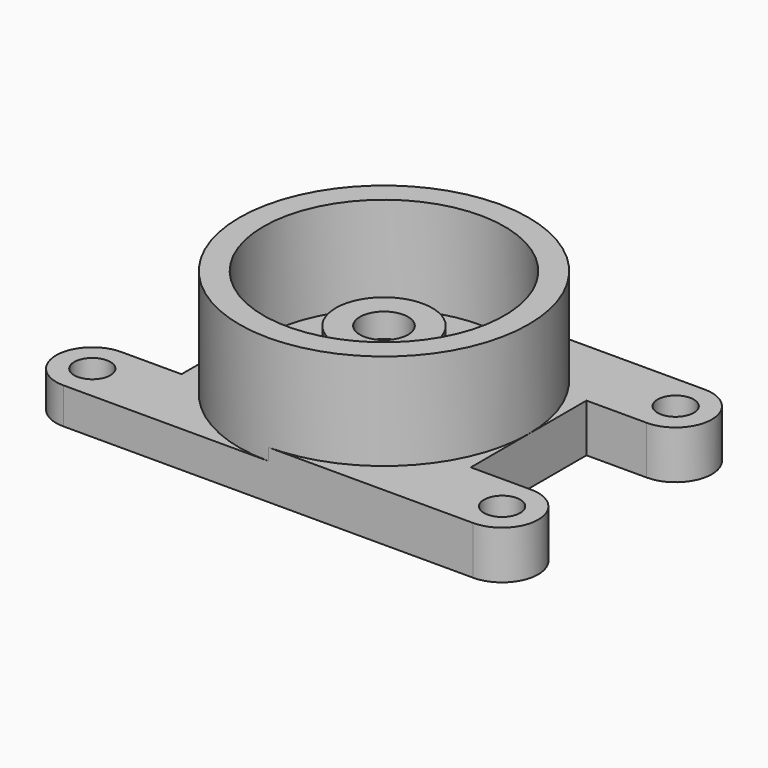
from build123d import *

# Parameters (mm, degrees)
F3_DEPTH = 19.05
F2_R     = 9.525
F4_DEPTH = 25.4


with BuildPart() as f1:
    # F0 (on Front) → F1 (revolve)
    with BuildSketch(Plane.XZ):
        Polygon((-76.2, 0), (-6.35, 0), (-6.35, 38.1), (-12.7, 38.1), (-12.7, 50.8), (-25.4, 50.8), (-25.4, 19.05), (-63.5, 19.05), (-63.5, 76.2), (-76.2, 76.2), align=None)
    revolve(axis=Axis((0, 0, 38.1), (0, 0, 1)))

    # F2 (on Top) → F3 (join)
    with BuildSketch(Plane.XY):
        with BuildLine():
            Line((-107.95, -76.2), (0, -76.2))
            ThreePointArc((0, -76.2), (-53.8815367264, -53.8815367264), (-76.2, 0))
            Line((-76.2, 0), (-76.2, -38.1))
            Line((-76.2, -38.1), (-107.95, -38.1))
            Line((-107.95, -38.1), (-107.95, -47.625))
            ThreePointArc((-107.95, -47.625), (-101.2148079092, -50.4148079092), (-98.425, -57.15))
            ThreePointArc((-98.425, -57.15), (-101.2148079092, -63.8851920908), (-107.95, -66.675))
            Line((-107.95, -66.675), (-107.95, -76.2))
        make_face()
        with BuildLine():
            ThreePointArc((-107.95, -38.1), (-127, -57.15), (-107.95, -76.2))
            Line((-107.95, -76.2), (-107.95, -66.675))
            ThreePointArc((-107.95, -66.675), (-117.475, -57.15), (-107.95, -47.625))
            Line((-107.95, -47.625), (-107.95, -38.1))
        make_face()
    extrude(amount=F3_DEPTH)

    # F2 (on Top) → F4 (join)
    with BuildSketch(Plane.XY):
        with BuildLine():
            Line((107.95, -66.675), (107.95, -76.2))
            ThreePointArc((107.95, -76.2), (127, -57.15), (107.95, -38.1))
            Line((107.95, -38.1), (107.95, -47.625))
            ThreePointArc((107.95, -47.625), (114.6851920908, -50.4148079092), (117.475, -57.15))
            ThreePointArc((117.475, -57.15), (114.6851920908, -63.8851920908), (107.95, -66.675))
        make_face()
        with BuildLine():
            ThreePointArc((-76.2, 0), (-53.8815367264, -53.8815367264), (0, -76.2))
            Line((0, -76.2), (107.95, -76.2))
            Line((107.95, -76.2), (107.95, -66.675))
            ThreePointArc((107.95, -66.675), (98.425, -57.15), (107.95, -47.625))
            Line((107.95, -47.625), (107.95, -38.1))
            Line((107.95, -38.1), (76.2, -38.1))
            Line((76.2, -38.1), (76.2, 0))
            Line((76.2, 0), (76.2, 38.1))
            Line((76.2, 38.1), (107.95, 38.1))
            ThreePointArc((107.95, 38.1), (127, 57.15), (107.95, 76.2))
            Line((107.95, 76.2), (0, 76.2))
            Line((0, 76.2), (-107.95, 76.2))
            ThreePointArc((-107.95, 76.2), (-127, 57.15), (-107.95, 38.1))
            Line((-107.95, 38.1), (-76.2, 38.1))
            Line((-76.2, 38.1), (-76.2, 0))
        make_face()
        with Locations((-107.95, 57.15)):
            Circle(F2_R, mode=Mode.SUBTRACT)
        with Locations((107.95, 57.15)):
            Circle(F2_R, mode=Mode.SUBTRACT)
    extrude(amount=F4_DEPTH)


solid = f1.part
